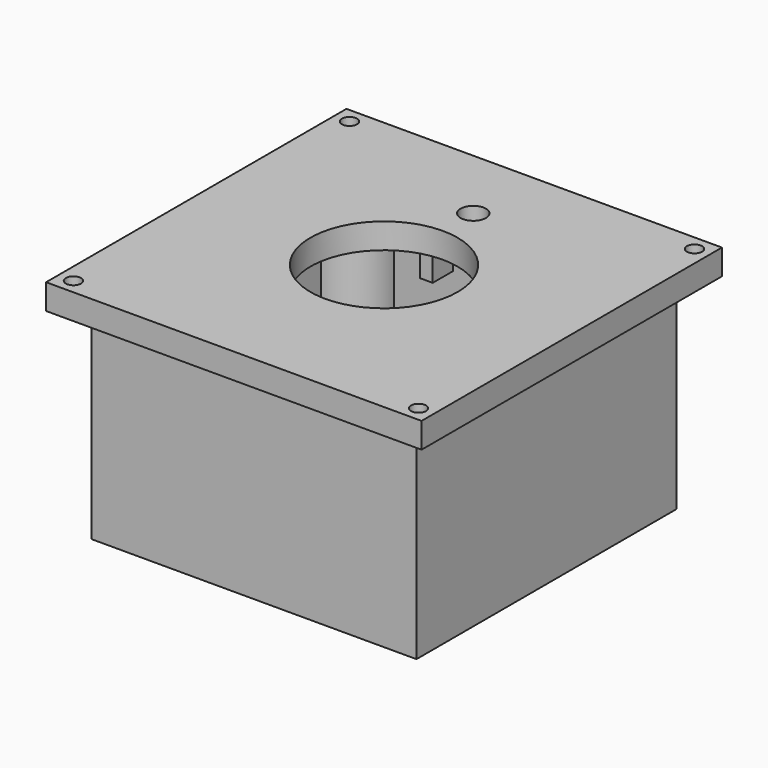
from build123d import *

# Parameters (mm, degrees)
SKETCH_W                   = 74
SKETCH_H                   = 74
PAD_DEPTH                  = 5
SKETCH002_W                = 64
SKETCH002_H                = 64
SKETCH002_W_2              = 60
SKETCH002_H_2              = 60
PAD001_DEPTH               = 40
SKETCH003_R                = 1.5
POCKET_DEPTH               = 232.834272
PAD002_DEPTH               = 37
SKETCH005_R                = 2.4
POCKET001_DEPTH            = 10
SKETCH003_MIRRORED_2_R     = 1.5
POCKET_MIRRORED_2_DEPTH    = 232.834272
PAD002_MIRRORED_2_DEPTH    = 37
SKETCH005_MIRRORED_2_R     = 2.4
POCKET001_MIRRORED_2_DEPTH = 10
SKETCH006_R                = 14.5
SKETCH006_R_2              = 2.5
POCKET002_DEPTH            = 45.001
SKETCH007_W                = 2.5
SKETCH007_H                = 5
PAD003_DEPTH               = 8


with BuildPart() as part:
    # Sketch → Pad (new body)
    with BuildSketch(Plane.XY):
        Rectangle(SKETCH_W, SKETCH_H)
    extrude(amount=PAD_DEPTH)

    # Sketch002 (on Face5 of Pad) → Pad001 (join)
    with BuildSketch(Plane(origin=(0, 0, 0), x_dir=(1, 0, 0), z_dir=(0, 0, -1))):
        Rectangle(SKETCH002_W, SKETCH002_H)
        Rectangle(SKETCH002_W_2, SKETCH002_H_2, mode=Mode.SUBTRACT)
    extrude(amount=PAD001_DEPTH)

    # Sketch003 (on Face4 of Pad001) → Pocket (cut, through all)
    with BuildSketch(Plane(origin=(0, 0, 0), x_dir=(1, 0, 0), z_dir=(0, 0, -1))):
        with Locations((-34, 34)):
            Circle(SKETCH003_R)
    pocket = extrude(amount=-POCKET_DEPTH, mode=Mode.SUBTRACT)

    # Sketch004 (on Face17 of Pocket) → Pad002 (join)
    with BuildSketch(Plane(origin=(0, 0, 0), x_dir=(1, 0, 0), z_dir=(0, 0, -1))):
        with BuildLine():
            ThreePointArc((-30, 22), (-24.343146, 24.343146), (-22, 30))
            Line((-30, 30), (-22, 30))
            Line((-30, 30), (-30, 22))
        make_face()
    pad002 = extrude(amount=PAD002_DEPTH)

    # Sketch005 (on Face17 of Pad002) → Pocket001 (cut)
    with BuildSketch(Plane(origin=(0, 0, -37), x_dir=(1, 0, 0), z_dir=(0, 0, -1))):
        with Locations((-27, 27)):
            Circle(SKETCH005_R)
    pocket001 = extrude(amount=-POCKET001_DEPTH, mode=Mode.SUBTRACT)

    # Sketch003 Mirrored 2 → Pocket Mirrored 2 (cut, through all)
    with BuildSketch(Plane(origin=(0, 0, 0), x_dir=(-1, 0, 0), z_dir=(0, 0, 1))):
        with Locations((-34, 34)):
            Circle(SKETCH003_MIRRORED_2_R)
    pocket_mirrored_2 = extrude(amount=POCKET_MIRRORED_2_DEPTH, mode=Mode.SUBTRACT)

    # Sketch004 Mirrored 2 → Pad002 Mirrored 2 (add)
    with BuildSketch(Plane(origin=(0, 0, 0), x_dir=(-1, 0, 0), z_dir=(0, 0, 1))):
        with BuildLine():
            ThreePointArc((-30, 22), (-24.343146, 24.343146), (-22, 30))
            Line((-30, 30), (-22, 30))
            Line((-30, 30), (-30, 22))
        make_face()
    pad002_mirrored_2 = extrude(amount=-PAD002_MIRRORED_2_DEPTH)

    # Sketch005 Mirrored 2 → Pocket001 Mirrored 2 (cut)
    with BuildSketch(Plane(origin=(0, 0, -37), x_dir=(-1, 0, 0), z_dir=(0, 0, 1))):
        with Locations((-27, 27)):
            Circle(SKETCH005_MIRRORED_2_R)
    pocket001_mirrored_2 = extrude(amount=POCKET001_MIRRORED_2_DEPTH, mode=Mode.SUBTRACT)

    # Mirrored001: Pocket, Pad002, Pocket001, Pocket Mirrored 2, Pad002 Mirrored 2, Pocket001 Mirrored 2 across Sketch003 H_Axis
    add(pocket.mirror(Plane(origin=(0, 0, 0), x_dir=(0, 0, -1), z_dir=(0, -1, 0))), mode=Mode.SUBTRACT)
    add(pad002.mirror(Plane(origin=(0, 0, 0), x_dir=(0, 0, -1), z_dir=(0, -1, 0))))
    add(pocket001.mirror(Plane(origin=(0, 0, 0), x_dir=(0, 0, -1), z_dir=(0, -1, 0))), mode=Mode.SUBTRACT)
    add(pocket_mirrored_2.mirror(Plane(origin=(0, 0, 0), x_dir=(0, 0, -1), z_dir=(0, -1, 0))), mode=Mode.SUBTRACT)
    add(pad002_mirrored_2.mirror(Plane(origin=(0, 0, 0), x_dir=(0, 0, -1), z_dir=(0, -1, 0))))
    add(pocket001_mirrored_2.mirror(Plane(origin=(0, 0, 0), x_dir=(0, 0, -1), z_dir=(0, -1, 0))), mode=Mode.SUBTRACT)

    # Sketch006 (on Face36 of MultiTransform) → Pocket002 (cut, through all)
    with BuildSketch(Plane.XY.offset(5)):
        Circle(SKETCH006_R)
        with Locations((0, 22)):
            Circle(SKETCH006_R_2)
    extrude(amount=-POCKET002_DEPTH, mode=Mode.SUBTRACT)

    # Sketch007 (on Face4 of Pocket002) → Pad003 (join)
    with BuildSketch(Plane(origin=(0, 0, 0), x_dir=(1, 0, 0), z_dir=(0, 0, -1))):
        with Locations((-7.25, -22)):
            Rectangle(SKETCH007_W, SKETCH007_H)
    extrude(amount=PAD003_DEPTH)


solid = part.part
